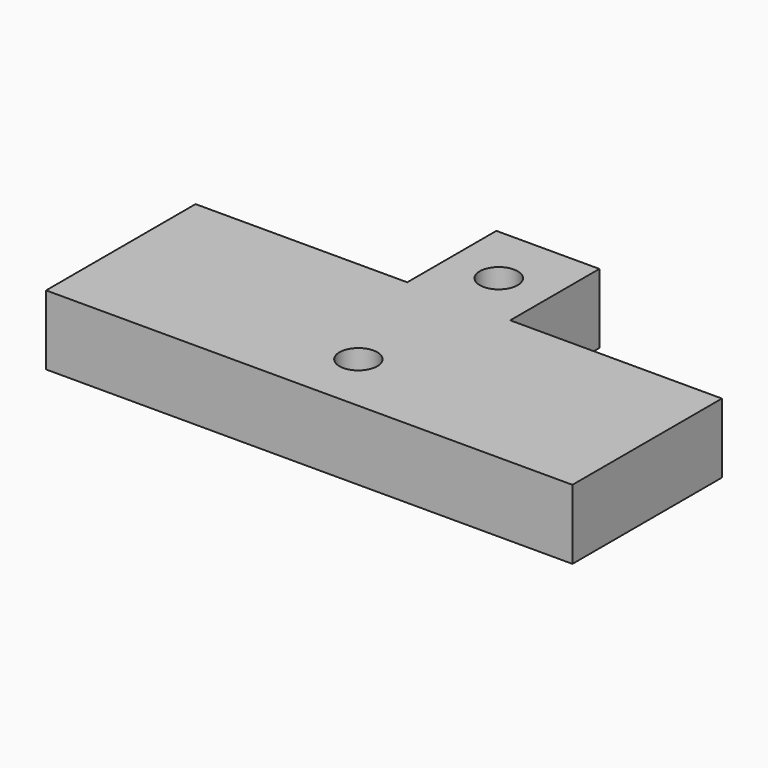
from build123d import *

# Parameters (mm, degrees)
F0_W     = 60
F0_H     = 34
F1_DEPTH = 7.9375
F3_D     = 4.318
F4_W     = 24.13
F4_H     = 12.7
F5_DEPTH = 7.9385


with BuildPart() as f1:
    # F0 (on Top) → F1 (new body)
    with BuildSketch(Plane.XY):
        Rectangle(F0_W, F0_H)
    extrude(amount=F1_DEPTH)

    # F3 (through all)
    with Locations(Plane.XY.offset(7.9375)):
        with Locations((0, 10), (0, -10)):
            Hole(F3_D / 2)

    # F4 (on face) → F5 (cut, through all)
    with BuildSketch(Plane.XY.offset(7.9375)):
        with Locations((-17.935, 10.65)):
            Rectangle(F4_W, F4_H)
        with Locations((17.935, 10.65)):
            Rectangle(F4_W, F4_H)
    extrude(amount=-F5_DEPTH, mode=Mode.SUBTRACT)


solid = f1.part
